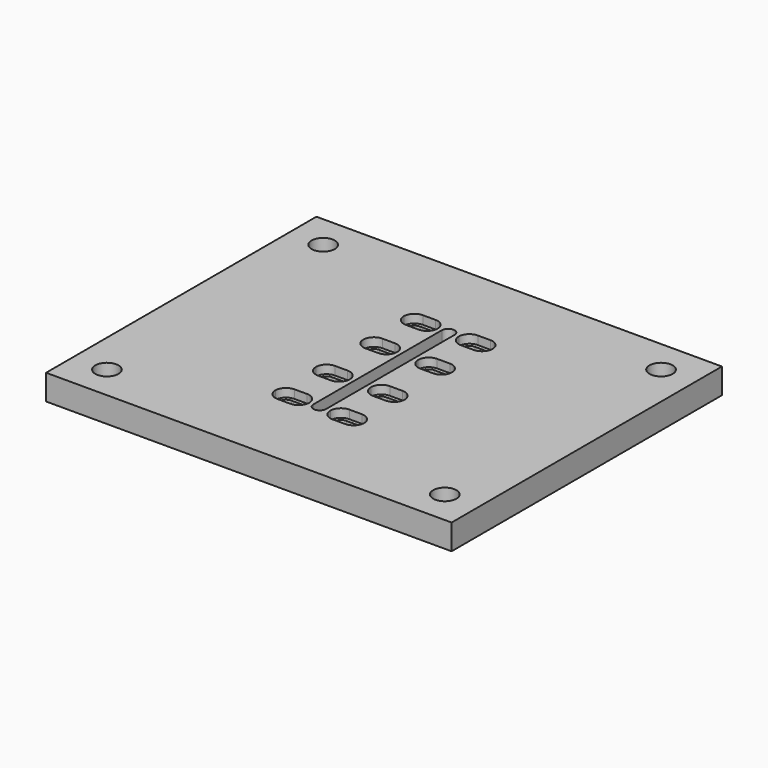
from build123d import *

# Parameters (mm, degrees)
F0_W     = 22.225
F0_H     = 38.1
F0_H_2   = 22.225
F1_DEPTH = 19.05
F2_W     = 9.525
F2_H     = 5.1562
F2_W_2   = 4.7625
F2_H_2   = 19.05
F2_H_3   = 22.225
F3_DEPTH = 25.4
F2_H_4   = 2.7813
F4_DEPTH = 6.35
F6_D     = 17.4625


with BuildPart() as f1:
    # F0 (on Top) → F1 (new body)
    with BuildSketch(Plane.XY):
        Polygon((0, 127), (-152.4, 127), (-152.4, 0), (-22.225, 0), (-22.225, 22.225), (-22.225, 60.325), (0, 60.325), align=None)
        Polygon((152.4, 127), (0, 127), (0, 60.325), (22.225, 60.325), (22.225, 22.225), (22.225, 0), (152.4, 0), align=None)
        Polygon((-22.225, 0), (-152.4, 0), (-152.4, -127), (0, -127), (0, -60.325), (-22.225, -60.325), (-22.225, -22.225), align=None)
        Polygon((152.4, -127), (152.4, 0), (22.225, 0), (22.225, -22.225), (22.225, -60.325), (0, -60.325), (0, -127), align=None)
        with Locations((-11.1125, 41.275)):
            Rectangle(F0_W, F0_H)
        with Locations((11.1125, 41.275)):
            Rectangle(F0_W, F0_H)
        with Locations((11.1125, 11.1125)):
            Rectangle(F0_W, F0_H_2)
        with Locations((-11.1125, 11.1125)):
            Rectangle(F0_W, F0_H_2)
        with Locations((-11.1125, -11.1125)):
            Rectangle(F0_W, F0_H_2)
        with Locations((11.1125, -11.1125)):
            Rectangle(F0_W, F0_H_2)
        with Locations((11.1125, -41.275)):
            Rectangle(F0_W, F0_H)
        with Locations((-11.1125, -41.275)):
            Rectangle(F0_W, F0_H)
    extrude(amount=F1_DEPTH)

    # F2 (on face) → F3 (cut)
    with BuildSketch(Plane.XY.offset(19.05)):
        with Locations((-20.6375, 24.8031)):
            Rectangle(F2_W, F2_H)
        with BuildLine():
            Line((-25.4, 22.225), (-25.4, 27.3812))
            ThreePointArc((-25.4, 27.3812), (-30.5562, 22.225), (-25.4, 17.0688))
            Line((-25.4, 17.0688), (-25.4, 22.225))
        make_face()
        with Locations((-20.6375, 19.6469)):
            Rectangle(F2_W, F2_H)
        with BuildLine():
            ThreePointArc((-10.7188, 22.225), (-12.2290160148, 25.8709839852), (-15.875, 27.3812))
            Line((-15.875, 27.3812), (-15.875, 22.225))
            Line((-15.875, 22.225), (-15.875, 17.0688))
            ThreePointArc((-15.875, 17.0688), (-12.2290160148, 18.5790160148), (-10.7188, 22.225))
        make_face()
        with Locations((-20.6375, 62.9031)):
            Rectangle(F2_W, F2_H)
        with BuildLine():
            Line((-25.4, 60.325), (-25.4, 65.4812))
            ThreePointArc((-25.4, 65.4812), (-29.0459839852, 63.9709839852), (-30.5562, 60.325))
            Line((-30.5562, 60.325), (-25.4, 60.325))
        make_face()
        with BuildLine():
            Line((-25.4, 55.1688), (-25.4, 60.325))
            Line((-25.4, 60.325), (-30.5562, 60.325))
            ThreePointArc((-30.5562, 60.325), (-29.0459839852, 56.6790160148), (-25.4, 55.1688))
        make_face()
        with Locations((-20.6375, 57.7469)):
            Rectangle(F2_W, F2_H)
        with BuildLine():
            Line((-10.7188, 60.325), (-15.875, 60.325))
            Line((-15.875, 60.325), (-15.875, 55.1688))
            ThreePointArc((-15.875, 55.1688), (-12.2290160148, 56.6790160148), (-10.7188, 60.325))
        make_face()
        with BuildLine():
            ThreePointArc((-10.7188, 60.325), (-12.2290160148, 63.9709839852), (-15.875, 65.4812))
            Line((-15.875, 65.4812), (-15.875, 60.325))
            Line((-15.875, 60.325), (-10.7188, 60.325))
        make_face()
        with BuildLine():
            Line((15.875, 60.325), (15.875, 65.4812))
            ThreePointArc((15.875, 65.4812), (12.2290160148, 63.9709839852), (10.7188, 60.325))
            Line((10.7188, 60.325), (15.875, 60.325))
        make_face()
        with Locations((20.6375, 62.9031)):
            Rectangle(F2_W, F2_H)
        with BuildLine():
            ThreePointArc((30.5562, 60.325), (29.0459839852, 63.9709839852), (25.4, 65.4812))
            Line((25.4, 65.4812), (25.4, 60.325))
            Line((25.4, 60.325), (30.5562, 60.325))
        make_face()
        with BuildLine():
            Line((30.5562, 60.325), (25.4, 60.325))
            Line((25.4, 60.325), (25.4, 55.1688))
            ThreePointArc((25.4, 55.1688), (29.0459839852, 56.6790160148), (30.5562, 60.325))
        make_face()
        with Locations((20.6375, 57.7469)):
            Rectangle(F2_W, F2_H)
        with BuildLine():
            Line((15.875, 55.1688), (15.875, 60.325))
            Line((15.875, 60.325), (10.7188, 60.325))
            ThreePointArc((10.7188, 60.325), (12.2290160148, 56.6790160148), (15.875, 55.1688))
        make_face()
        with Locations((2.38125, 50.8)):
            Rectangle(F2_W_2, F2_H_2)
        with Locations((-2.38125, 50.8)):
            Rectangle(F2_W_2, F2_H_2)
        with BuildLine():
            Line((0, 60.325), (4.7625, 60.325))
            ThreePointArc((4.7625, 60.325), (0, 65.0875), (-4.7625, 60.325))
            Line((-4.7625, 60.325), (0, 60.325))
        make_face()
        with Locations((-2.38125, 31.75)):
            Rectangle(F2_W_2, F2_H_2)
        with Locations((2.38125, 31.75)):
            Rectangle(F2_W_2, F2_H_2)
        with Locations((2.38125, -11.1125)):
            Rectangle(F2_W_2, F2_H_3)
        with Locations((-2.38125, -11.1125)):
            Rectangle(F2_W_2, F2_H_3)
        with Locations((2.38125, -31.75)):
            Rectangle(F2_W_2, F2_H_2)
        with Locations((-2.38125, -31.75)):
            Rectangle(F2_W_2, F2_H_2)
        with Locations((-2.38125, -50.8)):
            Rectangle(F2_W_2, F2_H_2)
        with BuildLine():
            ThreePointArc((-4.7625, -60.325), (0, -65.0875), (4.7625, -60.325))
            Line((4.7625, -60.325), (0, -60.325))
            Line((0, -60.325), (-4.7625, -60.325))
        make_face()
        with Locations((2.38125, 11.1125)):
            Rectangle(F2_W_2, F2_H_3)
        with Locations((-2.38125, 11.1125)):
            Rectangle(F2_W_2, F2_H_3)
        with BuildLine():
            Line((15.875, 22.225), (10.7188, 22.225))
            ThreePointArc((10.7188, 22.225), (12.2290160148, 18.5790160148), (15.875, 17.0688))
            Line((15.875, 17.0688), (15.875, 22.225))
        make_face()
        with BuildLine():
            Line((15.875, 22.225), (15.875, 27.3812))
            ThreePointArc((15.875, 27.3812), (12.2290160148, 25.8709839852), (10.7188, 22.225))
            Line((10.7188, 22.225), (15.875, 22.225))
        make_face()
        with BuildLine():
            ThreePointArc((30.5562, 22.225), (29.0459839852, 25.8709839852), (25.4, 27.3812))
            Line((25.4, 27.3812), (25.4, 22.225))
            Line((25.4, 22.225), (30.5562, 22.225))
        make_face()
        with BuildLine():
            ThreePointArc((25.4, 17.0688), (29.0459839852, 18.5790160148), (30.5562, 22.225))
            Line((30.5562, 22.225), (25.4, 22.225))
            Line((25.4, 22.225), (25.4, 17.0688))
        make_face()
        with Locations((20.6375, 19.6469)):
            Rectangle(F2_W, F2_H)
        with Locations((20.6375, 24.8031)):
            Rectangle(F2_W, F2_H)
        with Locations((20.6375, -19.6469)):
            Rectangle(F2_W, F2_H)
        with BuildLine():
            Line((15.875, -22.225), (15.875, -17.0688))
            ThreePointArc((15.875, -17.0688), (12.2290160148, -18.5790160148), (10.7188, -22.225))
            Line((10.7188, -22.225), (15.875, -22.225))
        make_face()
        with BuildLine():
            Line((15.875, -22.225), (10.7188, -22.225))
            ThreePointArc((10.7188, -22.225), (12.2290160148, -25.8709839852), (15.875, -27.3812))
            Line((15.875, -27.3812), (15.875, -22.225))
        make_face()
        with Locations((20.6375, -24.8031)):
            Rectangle(F2_W, F2_H)
        with BuildLine():
            ThreePointArc((25.4, -27.3812), (29.0459839852, -25.8709839852), (30.5562, -22.225))
            Line((30.5562, -22.225), (25.4, -22.225))
            Line((25.4, -22.225), (25.4, -27.3812))
        make_face()
        with BuildLine():
            ThreePointArc((30.5562, -22.225), (29.0459839852, -18.5790160148), (25.4, -17.0688))
            Line((25.4, -17.0688), (25.4, -22.225))
            Line((25.4, -22.225), (30.5562, -22.225))
        make_face()
        with Locations((20.6375, -57.7469)):
            Rectangle(F2_W, F2_H)
        with BuildLine():
            Line((15.875, -60.325), (15.875, -55.1688))
            ThreePointArc((15.875, -55.1688), (12.2290160148, -56.6790160148), (10.7188, -60.325))
            Line((10.7188, -60.325), (15.875, -60.325))
        make_face()
        with BuildLine():
            Line((15.875, -60.325), (10.7188, -60.325))
            ThreePointArc((10.7188, -60.325), (12.2290160148, -63.9709839852), (15.875, -65.4812))
            Line((15.875, -65.4812), (15.875, -60.325))
        make_face()
        with Locations((20.6375, -62.9031)):
            Rectangle(F2_W, F2_H)
        with BuildLine():
            Line((25.4, -60.325), (30.5562, -60.325))
            ThreePointArc((30.5562, -60.325), (29.0459839852, -56.6790160148), (25.4, -55.1688))
            Line((25.4, -55.1688), (25.4, -60.325))
        make_face()
        with BuildLine():
            ThreePointArc((25.4, -65.4812), (29.0459839852, -63.9709839852), (30.5562, -60.325))
            Line((30.5562, -60.325), (25.4, -60.325))
            Line((25.4, -60.325), (25.4, -65.4812))
        make_face()
        with BuildLine():
            ThreePointArc((-10.7188, -22.225), (-12.2290160148, -18.5790160148), (-15.875, -17.0688))
            Line((-15.875, -17.0688), (-15.875, -22.225))
            Line((-15.875, -22.225), (-10.7188, -22.225))
        make_face()
        with Locations((-20.6375, -19.6469)):
            Rectangle(F2_W, F2_H)
        with BuildLine():
            Line((-25.4, -22.225), (-25.4, -17.0688))
            ThreePointArc((-25.4, -17.0688), (-29.0459839852, -18.5790160148), (-30.5562, -22.225))
            Line((-30.5562, -22.225), (-25.4, -22.225))
        make_face()
        with BuildLine():
            Line((-25.4, -22.225), (-30.5562, -22.225))
            ThreePointArc((-30.5562, -22.225), (-29.0459839852, -25.8709839852), (-25.4, -27.3812))
            Line((-25.4, -27.3812), (-25.4, -22.225))
        make_face()
        with Locations((-20.6375, -24.8031)):
            Rectangle(F2_W, F2_H)
        with BuildLine():
            ThreePointArc((-15.875, -27.3812), (-12.2290160148, -25.8709839852), (-10.7188, -22.225))
            Line((-10.7188, -22.225), (-15.875, -22.225))
            Line((-15.875, -22.225), (-15.875, -27.3812))
        make_face()
        with BuildLine():
            ThreePointArc((-10.7188, -60.325), (-12.2290160148, -56.6790160148), (-15.875, -55.1688))
            Line((-15.875, -55.1688), (-15.875, -60.325))
            Line((-15.875, -60.325), (-10.7188, -60.325))
        make_face()
        with Locations((-20.6375, -57.7469)):
            Rectangle(F2_W, F2_H)
        with BuildLine():
            ThreePointArc((-25.4, -55.1688), (-29.0459839852, -56.6790160148), (-30.5562, -60.325))
            Line((-30.5562, -60.325), (-25.4, -60.325))
            Line((-25.4, -60.325), (-25.4, -55.1688))
        make_face()
        with BuildLine():
            Line((-25.4, -60.325), (-30.5562, -60.325))
            ThreePointArc((-30.5562, -60.325), (-29.0459839852, -63.9709839852), (-25.4, -65.4812))
            Line((-25.4, -65.4812), (-25.4, -60.325))
        make_face()
        with Locations((-20.6375, -62.9031)):
            Rectangle(F2_W, F2_H)
        with BuildLine():
            ThreePointArc((-15.875, -65.4812), (-12.2290160148, -63.9709839852), (-10.7188, -60.325))
            Line((-10.7188, -60.325), (-15.875, -60.325))
            Line((-15.875, -60.325), (-15.875, -65.4812))
        make_face()
        with Locations((2.38125, -50.8)):
            Rectangle(F2_W_2, F2_H_2)
    extrude(amount=-F3_DEPTH, mode=Mode.SUBTRACT)

    # F2 (on face) → F4 (cut)
    with BuildSketch(Plane.XY.offset(19.05)):
        with BuildLine():
            Line((-25.4, 27.3812), (-25.4, 30.1625))
            ThreePointArc((-25.4, 30.1625), (-33.3375, 22.225), (-25.4, 14.2875))
            Line((-25.4, 14.2875), (-25.4, 17.0688))
            ThreePointArc((-25.4, 17.0688), (-30.5562, 22.225), (-25.4, 27.3812))
        make_face()
        with Locations((-20.6375, 28.77185)):
            Rectangle(F2_W, F2_H_4)
        with BuildLine():
            ThreePointArc((-7.9375, 22.225), (-10.2623399243, 27.8376600757), (-15.875, 30.1625))
            Line((-15.875, 30.1625), (-15.875, 27.3812))
            ThreePointArc((-15.875, 27.3812), (-12.2290160148, 25.8709839852), (-10.7188, 22.225))
            Line((-10.7188, 22.225), (-7.9375, 22.225))
        make_face()
        with BuildLine():
            ThreePointArc((-15.875, 14.2875), (-10.2623399243, 16.6123399243), (-7.9375, 22.225))
            Line((-7.9375, 22.225), (-10.7188, 22.225))
            ThreePointArc((-10.7188, 22.225), (-12.2290160148, 18.5790160148), (-15.875, 17.0688))
            Line((-15.875, 17.0688), (-15.875, 14.2875))
        make_face()
        with Locations((-20.6375, 15.67815)):
            Rectangle(F2_W, F2_H_4)
        with BuildLine():
            Line((-25.4, 65.4812), (-25.4, 68.2625))
            ThreePointArc((-25.4, 68.2625), (-31.0126600757, 65.9376600757), (-33.3375, 60.325))
            Line((-33.3375, 60.325), (-30.5562, 60.325))
            ThreePointArc((-30.5562, 60.325), (-29.0459839852, 63.9709839852), (-25.4, 65.4812))
        make_face()
        with Locations((-20.6375, 66.87185)):
            Rectangle(F2_W, F2_H_4)
        with BuildLine():
            ThreePointArc((-7.9375, 60.325), (-10.2623399243, 65.9376600757), (-15.875, 68.2625))
            Line((-15.875, 68.2625), (-15.875, 65.4812))
            ThreePointArc((-15.875, 65.4812), (-12.2290160148, 63.9709839852), (-10.7188, 60.325))
            Line((-10.7188, 60.325), (-7.9375, 60.325))
        make_face()
        with BuildLine():
            ThreePointArc((-15.875, 52.3875), (-10.2623399243, 54.7123399243), (-7.9375, 60.325))
            Line((-7.9375, 60.325), (-10.7188, 60.325))
            ThreePointArc((-10.7188, 60.325), (-12.2290160148, 56.6790160148), (-15.875, 55.1688))
            Line((-15.875, 55.1688), (-15.875, 52.3875))
        make_face()
        with Locations((-20.6375, 53.77815)):
            Rectangle(F2_W, F2_H_4)
        with BuildLine():
            Line((-30.5562, 60.325), (-33.3375, 60.325))
            ThreePointArc((-33.3375, 60.325), (-31.0126600757, 54.7123399243), (-25.4, 52.3875))
            Line((-25.4, 52.3875), (-25.4, 55.1688))
            ThreePointArc((-25.4, 55.1688), (-29.0459839852, 56.6790160148), (-30.5562, 60.325))
        make_face()
        with BuildLine():
            Line((10.7188, 60.325), (7.9375, 60.325))
            ThreePointArc((7.9375, 60.325), (10.2623399243, 54.7123399243), (15.875, 52.3875))
            Line((15.875, 52.3875), (15.875, 55.1688))
            ThreePointArc((15.875, 55.1688), (12.2290160148, 56.6790160148), (10.7188, 60.325))
        make_face()
        with BuildLine():
            Line((15.875, 65.4812), (15.875, 68.2625))
            ThreePointArc((15.875, 68.2625), (10.2623399243, 65.9376600757), (7.9375, 60.325))
            Line((7.9375, 60.325), (10.7188, 60.325))
            ThreePointArc((10.7188, 60.325), (12.2290160148, 63.9709839852), (15.875, 65.4812))
        make_face()
        with Locations((20.6375, 66.87185)):
            Rectangle(F2_W, F2_H_4)
        with BuildLine():
            ThreePointArc((33.3375, 60.325), (31.0126600757, 65.9376600757), (25.4, 68.2625))
            Line((25.4, 68.2625), (25.4, 65.4812))
            ThreePointArc((25.4, 65.4812), (29.0459839852, 63.9709839852), (30.5562, 60.325))
            Line((30.5562, 60.325), (33.3375, 60.325))
        make_face()
        with BuildLine():
            ThreePointArc((25.4, 52.3875), (31.0126600757, 54.7123399243), (33.3375, 60.325))
            Line((33.3375, 60.325), (30.5562, 60.325))
            ThreePointArc((30.5562, 60.325), (29.0459839852, 56.6790160148), (25.4, 55.1688))
            Line((25.4, 55.1688), (25.4, 52.3875))
        make_face()
        with Locations((20.6375, 53.77815)):
            Rectangle(F2_W, F2_H_4)
        with Locations((20.6375, 28.77185)):
            Rectangle(F2_W, F2_H_4)
        with BuildLine():
            Line((10.7188, 22.225), (7.9375, 22.225))
            ThreePointArc((7.9375, 22.225), (10.2623399243, 16.6123399243), (15.875, 14.2875))
            Line((15.875, 14.2875), (15.875, 17.0688))
            ThreePointArc((15.875, 17.0688), (12.2290160148, 18.5790160148), (10.7188, 22.225))
        make_face()
        with Locations((20.6375, 15.67815)):
            Rectangle(F2_W, F2_H_4)
        with BuildLine():
            ThreePointArc((25.4, 14.2875), (31.0126600757, 16.6123399243), (33.3375, 22.225))
            Line((33.3375, 22.225), (30.5562, 22.225))
            ThreePointArc((30.5562, 22.225), (29.0459839852, 18.5790160148), (25.4, 17.0688))
            Line((25.4, 17.0688), (25.4, 14.2875))
        make_face()
        with BuildLine():
            ThreePointArc((33.3375, 22.225), (31.0126600757, 27.8376600757), (25.4, 30.1625))
            Line((25.4, 30.1625), (25.4, 27.3812))
            ThreePointArc((25.4, 27.3812), (29.0459839852, 25.8709839852), (30.5562, 22.225))
            Line((30.5562, 22.225), (33.3375, 22.225))
        make_face()
        with BuildLine():
            Line((15.875, 27.3812), (15.875, 30.1625))
            ThreePointArc((15.875, 30.1625), (10.2623399243, 27.8376600757), (7.9375, 22.225))
            Line((7.9375, 22.225), (10.7188, 22.225))
            ThreePointArc((10.7188, 22.225), (12.2290160148, 25.8709839852), (15.875, 27.3812))
        make_face()
        with BuildLine():
            ThreePointArc((33.3375, -22.225), (31.0126600757, -16.6123399243), (25.4, -14.2875))
            Line((25.4, -14.2875), (25.4, -17.0688))
            ThreePointArc((25.4, -17.0688), (29.0459839852, -18.5790160148), (30.5562, -22.225))
            Line((30.5562, -22.225), (33.3375, -22.225))
        make_face()
        with Locations((20.6375, -15.67815)):
            Rectangle(F2_W, F2_H_4)
        with BuildLine():
            Line((15.875, -17.0688), (15.875, -14.2875))
            ThreePointArc((15.875, -14.2875), (10.2623399243, -16.6123399243), (7.9375, -22.225))
            Line((7.9375, -22.225), (10.7188, -22.225))
            ThreePointArc((10.7188, -22.225), (12.2290160148, -18.5790160148), (15.875, -17.0688))
        make_face()
        with BuildLine():
            Line((10.7188, -22.225), (7.9375, -22.225))
            ThreePointArc((7.9375, -22.225), (10.2623399243, -27.8376600757), (15.875, -30.1625))
            Line((15.875, -30.1625), (15.875, -27.3812))
            ThreePointArc((15.875, -27.3812), (12.2290160148, -25.8709839852), (10.7188, -22.225))
        make_face()
        with Locations((20.6375, -28.77185)):
            Rectangle(F2_W, F2_H_4)
        with BuildLine():
            ThreePointArc((25.4, -30.1625), (31.0126600757, -27.8376600757), (33.3375, -22.225))
            Line((33.3375, -22.225), (30.5562, -22.225))
            ThreePointArc((30.5562, -22.225), (29.0459839852, -25.8709839852), (25.4, -27.3812))
            Line((25.4, -27.3812), (25.4, -30.1625))
        make_face()
        with BuildLine():
            Line((30.5562, -60.325), (33.3375, -60.325))
            ThreePointArc((33.3375, -60.325), (31.0126600757, -54.7123399243), (25.4, -52.3875))
            Line((25.4, -52.3875), (25.4, -55.1688))
            ThreePointArc((25.4, -55.1688), (29.0459839852, -56.6790160148), (30.5562, -60.325))
        make_face()
        with Locations((20.6375, -53.77815)):
            Rectangle(F2_W, F2_H_4)
        with BuildLine():
            Line((15.875, -55.1688), (15.875, -52.3875))
            ThreePointArc((15.875, -52.3875), (10.2623399243, -54.7123399243), (7.9375, -60.325))
            Line((7.9375, -60.325), (10.7188, -60.325))
            ThreePointArc((10.7188, -60.325), (12.2290160148, -56.6790160148), (15.875, -55.1688))
        make_face()
        with BuildLine():
            Line((10.7188, -60.325), (7.9375, -60.325))
            ThreePointArc((7.9375, -60.325), (10.2623399243, -65.9376600757), (15.875, -68.2625))
            Line((15.875, -68.2625), (15.875, -65.4812))
            ThreePointArc((15.875, -65.4812), (12.2290160148, -63.9709839852), (10.7188, -60.325))
        make_face()
        with Locations((20.6375, -66.87185)):
            Rectangle(F2_W, F2_H_4)
        with BuildLine():
            ThreePointArc((25.4, -68.2625), (31.0126600757, -65.9376600757), (33.3375, -60.325))
            Line((33.3375, -60.325), (30.5562, -60.325))
            ThreePointArc((30.5562, -60.325), (29.0459839852, -63.9709839852), (25.4, -65.4812))
            Line((25.4, -65.4812), (25.4, -68.2625))
        make_face()
        with BuildLine():
            ThreePointArc((-15.875, -68.2625), (-10.2623399243, -65.9376600757), (-7.9375, -60.325))
            Line((-7.9375, -60.325), (-10.7188, -60.325))
            ThreePointArc((-10.7188, -60.325), (-12.2290160148, -63.9709839852), (-15.875, -65.4812))
            Line((-15.875, -65.4812), (-15.875, -68.2625))
        make_face()
        with BuildLine():
            ThreePointArc((-7.9375, -60.325), (-10.2623399243, -54.7123399243), (-15.875, -52.3875))
            Line((-15.875, -52.3875), (-15.875, -55.1688))
            ThreePointArc((-15.875, -55.1688), (-12.2290160148, -56.6790160148), (-10.7188, -60.325))
            Line((-10.7188, -60.325), (-7.9375, -60.325))
        make_face()
        with Locations((-20.6375, -53.77815)):
            Rectangle(F2_W, F2_H_4)
        with BuildLine():
            ThreePointArc((-25.4, -52.3875), (-31.0126600757, -54.7123399243), (-33.3375, -60.325))
            Line((-33.3375, -60.325), (-30.5562, -60.325))
            ThreePointArc((-30.5562, -60.325), (-29.0459839852, -56.6790160148), (-25.4, -55.1688))
            Line((-25.4, -55.1688), (-25.4, -52.3875))
        make_face()
        with BuildLine():
            Line((-30.5562, -60.325), (-33.3375, -60.325))
            ThreePointArc((-33.3375, -60.325), (-31.0126600757, -65.9376600757), (-25.4, -68.2625))
            Line((-25.4, -68.2625), (-25.4, -65.4812))
            ThreePointArc((-25.4, -65.4812), (-29.0459839852, -63.9709839852), (-30.5562, -60.325))
        make_face()
        with Locations((-20.6375, -66.87185)):
            Rectangle(F2_W, F2_H_4)
        with Locations((-20.6375, -15.67815)):
            Rectangle(F2_W, F2_H_4)
        with BuildLine():
            Line((-25.4, -17.0688), (-25.4, -14.2875))
            ThreePointArc((-25.4, -14.2875), (-31.0126600757, -16.6123399243), (-33.3375, -22.225))
            Line((-33.3375, -22.225), (-30.5562, -22.225))
            ThreePointArc((-30.5562, -22.225), (-29.0459839852, -18.5790160148), (-25.4, -17.0688))
        make_face()
        with BuildLine():
            Line((-30.5562, -22.225), (-33.3375, -22.225))
            ThreePointArc((-33.3375, -22.225), (-31.0126600757, -27.8376600757), (-25.4, -30.1625))
            Line((-25.4, -30.1625), (-25.4, -27.3812))
            ThreePointArc((-25.4, -27.3812), (-29.0459839852, -25.8709839852), (-30.5562, -22.225))
        make_face()
        with Locations((-20.6375, -28.77185)):
            Rectangle(F2_W, F2_H_4)
        with BuildLine():
            ThreePointArc((-15.875, -30.1625), (-10.2623399243, -27.8376600757), (-7.9375, -22.225))
            Line((-7.9375, -22.225), (-10.7188, -22.225))
            ThreePointArc((-10.7188, -22.225), (-12.2290160148, -25.8709839852), (-15.875, -27.3812))
            Line((-15.875, -27.3812), (-15.875, -30.1625))
        make_face()
        with BuildLine():
            ThreePointArc((-7.9375, -22.225), (-10.2623399243, -16.6123399243), (-15.875, -14.2875))
            Line((-15.875, -14.2875), (-15.875, -17.0688))
            ThreePointArc((-15.875, -17.0688), (-12.2290160148, -18.5790160148), (-10.7188, -22.225))
            Line((-10.7188, -22.225), (-7.9375, -22.225))
        make_face()
    extrude(amount=-F4_DEPTH, mode=Mode.SUBTRACT)

    # F6 (through all)
    with Locations(Plane.XY.offset(19.05)):
        with Locations((-127, 101.6), (127, 101.6), (127, -101.6), (-127, -101.6)):
            Hole(F6_D / 2)


solid = f1.part
